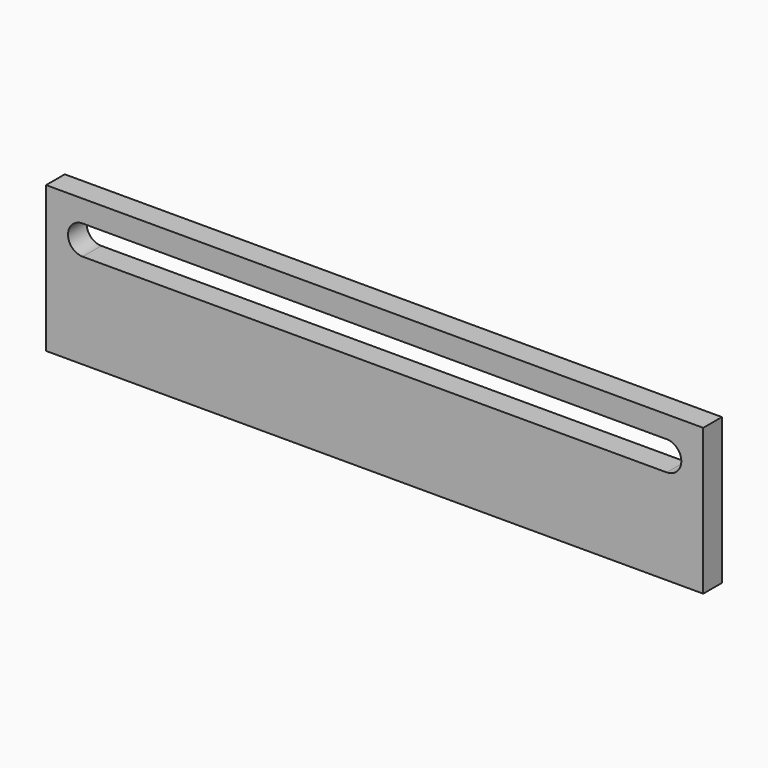
from build123d import *

# Parameters (mm, degrees)
F0_W     = 450
F0_H     = 100
F1_DEPTH = 16


with BuildPart() as f1:
    # F0 (on Front) → F1 (new body)
    with BuildSketch(Plane.XZ):
        with Locations((-13.259429, -7.520537)):
            Rectangle(F0_W, F0_H)
        with BuildLine():
            ThreePointArc((-213.259429, 7.479463), (-223.259429, 17.479463), (-213.259429, 27.479463))
            Line((-213.259429, 27.479463), (186.740571, 27.479463))
            ThreePointArc((186.740571, 27.479463), (196.740571, 17.479463), (186.740571, 7.479463))
            Line((186.740571, 7.479463), (-213.259429, 7.479463))
        make_face(mode=Mode.SUBTRACT)
    extrude(amount=F1_DEPTH)


solid = f1.part
